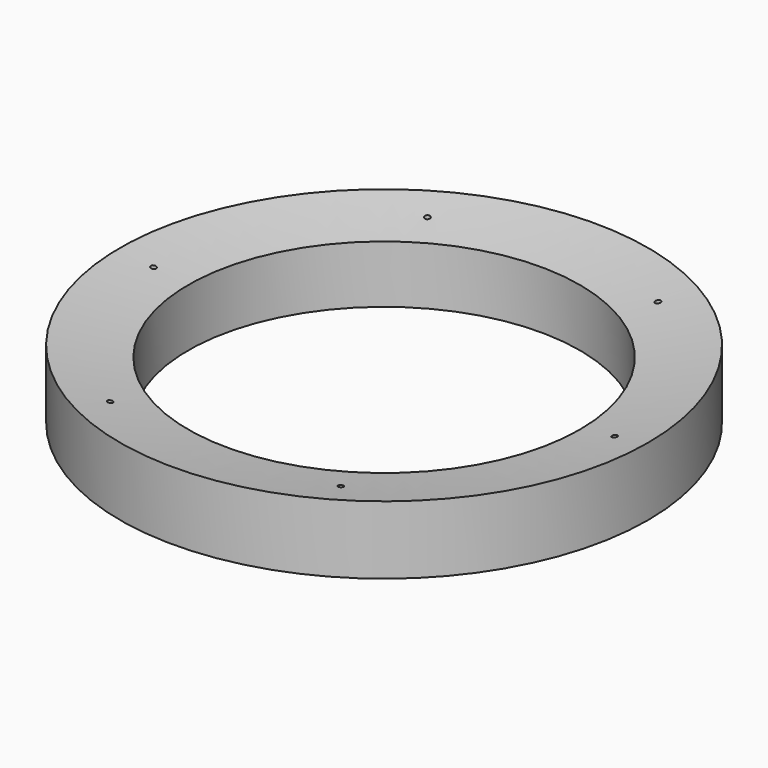
from build123d import *

# Parameters (mm, degrees)
F4_D = 1


with BuildPart() as f2:
    # F1 (on Front) → F2 (revolve)
    with BuildSketch(Plane.XZ):
        with BuildLine():
            ThreePointArc((49.2125, 12.7), (42.8737131583, 11.6468834383), (36.5125, 10.7390066457))
            Line((36.5125, 10.7390066457), (36.5125, 0))
            Line((36.5125, 0), (49.2125, 0))
            Line((49.2125, 0), (49.2125, 12.7))
        make_face()
    revolve(axis=Axis((0, 0, -0.7509738207), (0, 0, -1)))

    # F4 (through all)
    with Locations(Plane(origin=(0, 0, 0), x_dir=(1, 0, 0), z_dir=(0, 0, -1))):
        with Locations((-21.297345864, 37.1970021023), (21.5648758332, 37.0425436026), (42.8622216972, -0.1544584998), (21.297345864, -37.1970021023), (-21.5648758332, -37.0425436026), (-42.8622216972, 0.1544584998)):
            Hole(F4_D / 2)


solid = f2.part
